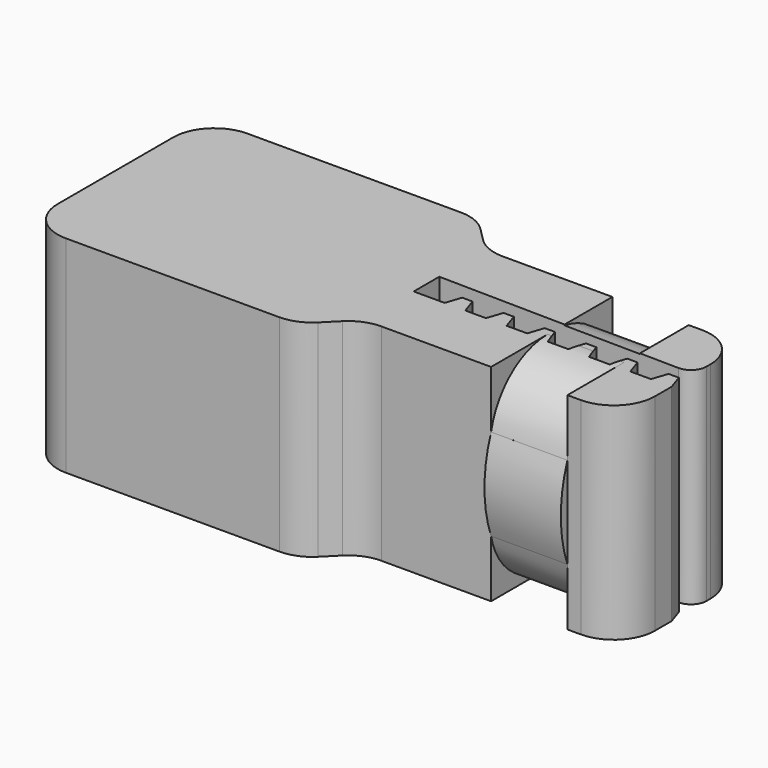
from build123d import *

# Parameters (mm, degrees)
PAD002_DEPTH    = 3.7
PAD001_DEPTH    = 3.5
PAD_DEPTH       = 10
SKETCH001_R     = 2.2
POCKET_DEPTH    = 13.5
CHAMFER_SIZE    = 0.5
FILLET_R        = 2
FILLET001_R     = 0.75
SKETCH004_W     = 3.7
SKETCH004_H     = 4.441354
PAD003_DEPTH    = 2
POCKET001_DEPTH = 3.7
SKETCH006_W     = 3.7
SKETCH006_H     = 4.441354
PAD004_DEPTH    = 2
POCKET002_DEPTH = 3.7


with BuildPart() as pad002:
    # Sketch003 → Pad002 (new body)
    with BuildSketch(Plane.YZ.offset(11.1)):
        with BuildLine():
            Line((-1.31066, 11.5), (1.31066, 11.5))
            ThreePointArc((5.25, 7.56066), (4.096194, 10.346194), (1.31066, 11.5))
            Line((5.25, 7.56066), (5.25, 2.43934))
            ThreePointArc((1.31066, -1.5), (4.096194, -0.346194), (5.25, 2.43934))
            Line((1.31066, -1.5), (-1.31066, -1.5))
            ThreePointArc((-5.25, 2.43934), (-4.096194, -0.346194), (-1.31066, -1.5))
            Line((-5.25, 2.43934), (-5.25, 7.56066))
            ThreePointArc((-1.31066, 11.5), (-4.096194, 10.346194), (-5.25, 7.56066))
        make_face()
        with BuildLine():
            Line((-0.25, 10), (0.25, 10))
            ThreePointArc((3.75, 6.5), (2.724874, 8.974874), (0.25, 10))
            Line((3.75, 6.5), (3.75, 3.5))
            ThreePointArc((0.25, 0), (2.724874, 1.025126), (3.75, 3.5))
            Line((0.25, 0), (-0.25, 0))
            ThreePointArc((-3.75, 3.5), (-2.724874, 1.025126), (-0.25, 0))
            Line((-3.75, 3.5), (-3.75, 6.5))
            ThreePointArc((-0.25, 10), (-2.724874, 8.974874), (-3.75, 6.5))
        make_face(mode=Mode.SUBTRACT)
    extrude(amount=-PAD002_DEPTH)


with BuildPart() as pad001:
    # Sketch002 → Pad001 (new body)
    with BuildSketch(Plane.YZ.offset(-7)):
        Polygon((3.525, 2.96484), (3.525, 7.03516), (0, 9.070319), (-3.525, 7.03516), (-3.525, 2.96484), (-3.525, 0), (3.525, 0), align=None)
    extrude(amount=-PAD001_DEPTH)


with BuildPart() as pocket002:
    # Sketch → Pad (new body)
    with BuildSketch(Plane.XY):
        Polygon((2.75, -0.675), (3, 0.075), (3.5, 0.075), (3.75, -0.675), (4.75, -0.675), (5, 0.075), (5.5, 0.075), (5.75, -0.675), (6.75, -0.675), (7, 0.075), (7.5, 0.075), (7.75, -0.675), (8.75, -0.675), (9, 0.075), (9.5, 0.075), (9.75, -0.675), (10.75, -0.675), (11, 0.075), (11.5, 0.075), (11.75, -0.675), (12.75, -0.675), (13, 0.075), (13.5, 0.075), (13.75, -0.675), (13.75, -3.675), (1.25, -3.675), (-0.575, -5.5), (-13.75, -5.5), (-13.75, 5.5), (-0.575, 5.5), (1.25, 3.675), (13.75, 3.675), (13.75, 0.675), (1.25, 0.875), (1.25, -0.675), align=None)
    extrude(amount=PAD_DEPTH)

    # Sketch001 → Pocket (cut)
    with BuildSketch(Plane(origin=(-13.75, 0, 0), x_dir=(0, -1, 0), z_dir=(-1, 0, 0))):
        with Locations((0, 5)):
            Circle(SKETCH001_R)
    extrude(amount=-POCKET_DEPTH, mode=Mode.SUBTRACT)

    # Cut: cut Pad001
    add(pad001.part, mode=Mode.SUBTRACT)

    # Cut001: cut Pad002
    add(pad002.part, mode=Mode.SUBTRACT)

    # Chamfer
    chamfer_edges = [pocket002.edges().sort_by_distance(p)[0] for p in [
        (-7, 0, 0),
        (-8.75, -3.525, 0),
        (-10.5, 0, 0),
        (-8.75, 3.525, 0),
    ]]
    chamfer(chamfer_edges, length=CHAMFER_SIZE)

    # Fillet
    fillet_edges = [pocket002.edges().sort_by_distance(p)[0] for p in [
        (13.75, 3.675, 5),
        (1.25, 3.675, 5),
        (-0.575, 5.5, 5),
        (-13.75, 5.5, 5),
        (13.75, -3.675, 5),
        (1.25, -3.675, 5),
        (-0.575, -5.5, 5),
        (-13.75, -5.5, 5),
    ]]
    fillet(fillet_edges, radius=FILLET_R)

    # Fillet001
    fillet001_edges = [pocket002.edges().sort_by_distance(p)[0] for p in [
        (13.75, 0.675, 5),
    ]]
    fillet(fillet001_edges, radius=FILLET001_R)

    # Sketch004 → Pad003 (new body)
    with BuildSketch(Plane.XZ.offset(3.675)):
        with Locations((9.25, 5)):
            Rectangle(SKETCH004_W, SKETCH004_H)
    extrude(amount=PAD003_DEPTH)

    # Sketch005 → Pocket001 (cut)
    with BuildSketch(Plane.YZ.offset(11.1)):
        with BuildLine():
            ThreePointArc((-3.675, 7.220677), (-4.075959, 5), (-3.675, 2.779323))
            Line((-3.675, 2.779323), (-5.675, 2.779323))
            Line((-5.675, 2.779323), (-5.675, 7.220677))
            Line((-5.675, 7.220677), (-3.675, 7.220677))
        make_face()
    extrude(amount=-POCKET001_DEPTH, mode=Mode.SUBTRACT)

    # Sketch006 → Pad004 (new body)
    with BuildSketch(Plane(origin=(0, 3.675, 0), x_dir=(-1, 0, 0), z_dir=(0, 1, 0))):
        with Locations((-9.25, 5)):
            Rectangle(SKETCH006_W, SKETCH006_H)
    extrude(amount=PAD004_DEPTH)

    # Sketch007 → Pocket002 (cut)
    with BuildSketch(Plane.YZ.offset(11.1)):
        with BuildLine():
            ThreePointArc((3.675, 2.779323), (4.075959, 5), (3.675, 7.220677))
            Line((3.675, 7.220677), (5.675, 7.220677))
            Line((5.675, 7.220677), (5.675, 2.779323))
            Line((5.675, 2.779323), (3.675, 2.779323))
        make_face()
    extrude(amount=-POCKET002_DEPTH, mode=Mode.SUBTRACT)


solid = pocket002.part
